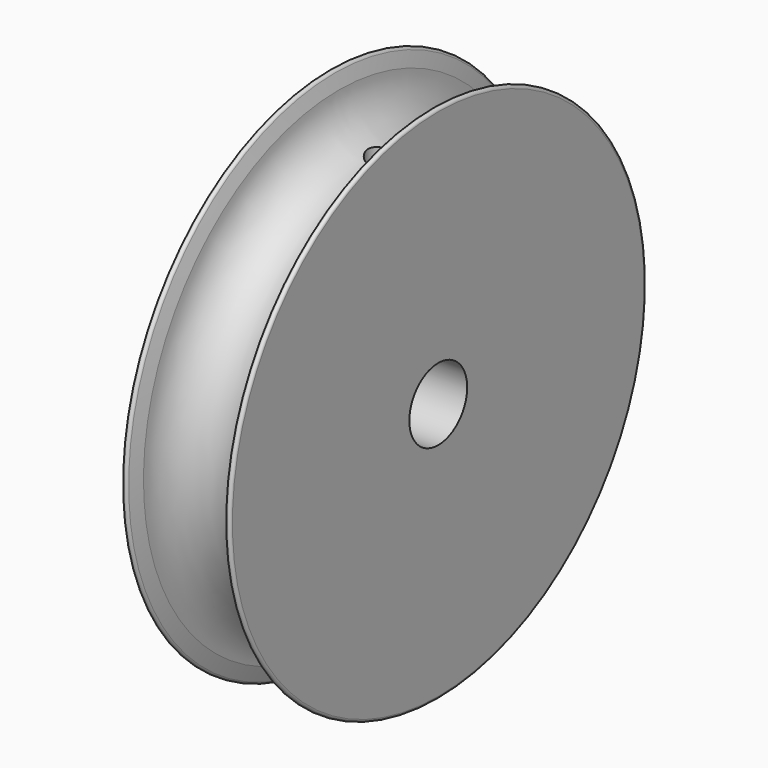
from build123d import *

# Parameters (mm, degrees)
F2_R     = 0.15
F4_D     = 4
F7_D     = 1.75
F7_DEPTH = 10
F7_START = 1.0348565
F7_TIP   = 0.5257530416


with BuildPart() as f1:
    # F0 (on Front) → F1 (revolve)
    with BuildSketch(Plane.XZ):
        with BuildLine():
            ThreePointArc((2.5, 13.5), (0, 11), (-2.5, 13.5))
            Line((-2.5, 13.5), (-3, 15.3660254038))
            Line((-3, 15.3660254038), (-3, 13.5))
            Line((-3, 13.5), (-3, 0))
            Line((-3, 0), (3, 0))
            Line((3, 0), (3, 13.5))
            Line((3, 13.5), (3, 15.3660254038))
            Line((3, 15.3660254038), (2.5, 13.5))
        make_face()
    revolve(axis=Axis((0, 0, 0), (1, 0, 0)))

    # F2
    f2_edges = [f1.edges().sort_by_distance(p)[0] for p in [
        (-3, 0, -15.366025),
        (3, 0, -15.366025),
    ]]
    fillet(f2_edges, radius=F2_R)

    # F4 (through all)
    with Locations(Plane.YZ.offset(3)):
        with Locations((0, 0)):
            Hole(F4_D / 2)

    # F7
    # its depths count from where the whole tool has entered the part; down to there all is cleared
    with Locations(Plane.XY.offset(12).offset(-F7_START)):
        with Locations((0, 0)):
            Hole(F7_D / 2, depth=F7_DEPTH)
            with Locations((0, 0, -(F7_DEPTH + F7_TIP / 2))):  # 118° drill point
                Cone(0, F7_D / 2, F7_TIP, mode=Mode.SUBTRACT)


solid = f1.part
